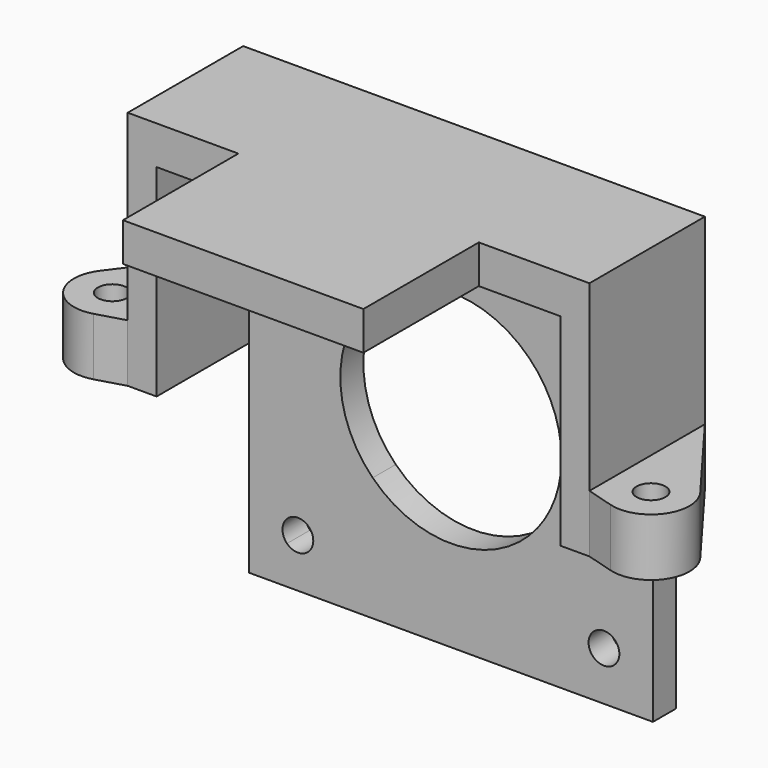
from build123d import *

# Parameters (mm, degrees)
F1_DEPTH = 3
F4_DEPTH = 4
F5_W     = 3
F5_H     = 25
F6_DEPTH = 15
F8_R     = 1.5
F9_DEPTH = 6


with BuildPart() as f1:
    # F0 (on Front) → F1 (new body)
    with BuildSketch(Plane.XZ):
        with BuildLine():
            Line((-17.0412734266, 17.0412734266), (-21, 21))
            Line((-21, 21), (-21, -21))
            Line((-21, -21), (-17.0412734266, -17.0412734266))
            ThreePointArc((-17.0412734266, -17.0412734266), (-17.0412734266, -14.7785317268), (-14.7785317268, -14.7785317268))
            Line((-14.7785317268, -14.7785317268), (-8.1317279836, -8.1317279836))
            ThreePointArc((-8.1317279836, -8.1317279836), (-11.5, 0), (-8.1317279836, 8.1317279836))
            Line((-8.1317279836, 8.1317279836), (-14.7785317268, 14.7785317268))
            ThreePointArc((-14.7785317268, 14.7785317268), (-17.0412734266, 14.7785317268), (-17.0412734266, 17.0412734266))
        make_face()
        with BuildLine():
            Line((21, 21), (-21, 21))
            Line((-21, 21), (-17.0412734266, 17.0412734266))
            ThreePointArc((-17.0412734266, 17.0412734266), (-15.2976090849, 17.3881098287), (-14.3099025767, 15.9099025767))
            ThreePointArc((-14.3099025767, 15.9099025767), (-14.4316953247, 15.2976090849), (-14.7785317268, 14.7785317268))
            Line((-14.7785317268, 14.7785317268), (-8.1317279836, 8.1317279836))
            ThreePointArc((-8.1317279836, 8.1317279836), (0, 11.5), (8.1317279836, 8.1317279836))
            Line((8.1317279836, 8.1317279836), (14.7785317268, 14.7785317268))
            ThreePointArc((14.7785317268, 14.7785317268), (14.7785317268, 17.0412734266), (17.0412734266, 17.0412734266))
            Line((17.0412734266, 17.0412734266), (21, 21))
        make_face()
        with BuildLine():
            Line((21, -21), (21, 21))
            Line((21, 21), (17.0412734266, 17.0412734266))
            ThreePointArc((17.0412734266, 17.0412734266), (17.3881098287, 16.5221960685), (17.5099025767, 15.9099025767))
            ThreePointArc((17.5099025767, 15.9099025767), (16.5221960685, 14.4316953247), (14.7785317268, 14.7785317268))
            Line((14.7785317268, 14.7785317268), (8.1317279836, 8.1317279836))
            ThreePointArc((8.1317279836, 8.1317279836), (10.6246146239, 4.4008594722), (11.5, 0))
            ThreePointArc((11.5, 0), (10.6246146239, -4.4008594722), (8.1317279836, -8.1317279836))
            Line((8.1317279836, -8.1317279836), (14.7785317268, -14.7785317268))
            ThreePointArc((14.7785317268, -14.7785317268), (16.5221960685, -14.4316953247), (17.5099025767, -15.9099025767))
            ThreePointArc((17.5099025767, -15.9099025767), (17.3881098287, -16.5221960685), (17.0412734266, -17.0412734266))
            Line((17.0412734266, -17.0412734266), (21, -21))
        make_face()
        with BuildLine():
            Line((-17.0412734266, -17.0412734266), (-21, -21))
            Line((-21, -21), (21, -21))
            Line((21, -21), (17.0412734266, -17.0412734266))
            ThreePointArc((17.0412734266, -17.0412734266), (14.7785317268, -17.0412734266), (14.7785317268, -14.7785317268))
            Line((14.7785317268, -14.7785317268), (8.1317279836, -8.1317279836))
            ThreePointArc((8.1317279836, -8.1317279836), (0, -11.5), (-8.1317279836, -8.1317279836))
            Line((-8.1317279836, -8.1317279836), (-14.7785317268, -14.7785317268))
            ThreePointArc((-14.7785317268, -14.7785317268), (-14.4316953247, -15.2976090849), (-14.3099025767, -15.9099025767))
            ThreePointArc((-14.3099025767, -15.9099025767), (-15.2976090849, -17.3881098287), (-17.0412734266, -17.0412734266))
        make_face()
    extrude(amount=F1_DEPTH)

    # F3 (on offset) → F4 (join)
    with BuildSketch(Plane.XY.offset(21)):
        Polygon((0, 0), (-21, 0), (-21, -15), (-12.5, -15), (-12.5, -30), (0, -30), align=None)
        Polygon((21, 0), (0, 0), (0, -30), (12.5, -30), (12.5, -15), (21, -15), align=None)
    extrude(amount=F4_DEPTH)

    # F5 (on Front) → F6 (join)
    with BuildSketch(Plane.XZ):
        with Locations((-22.5, 12.5)):
            Rectangle(F5_W, F5_H)
        with Locations((22.5, 12.5)):
            Rectangle(F5_W, F5_H)
    extrude(amount=F6_DEPTH)

    # F8 (on offset) → F9 (join)
    with BuildSketch(Plane(origin=(0, 0, 0), x_dir=(1, 0, 0), z_dir=(0, 0, -1))):
        with BuildLine():
            Line((24, 0), (31.2, 9.6))
            ThreePointArc((31.2, 9.6), (31.2887687666, 14.2768399153), (26.88, 15.84))
            Line((26.88, 15.84), (24, 15))
            Line((24, 15), (24, 0))
        make_face()
        with Locations((28, 12)):
            Circle(F8_R, mode=Mode.SUBTRACT)
        with BuildLine():
            Line((-24, 0), (-24, 15))
            Line((-24, 15), (-26.88, 15.84))
            ThreePointArc((-26.88, 15.84), (-31.2887687666, 14.2768399153), (-31.2, 9.6))
            Line((-31.2, 9.6), (-24, 0))
        make_face()
        with Locations((-28, 12)):
            Circle(F8_R, mode=Mode.SUBTRACT)
    extrude(amount=-F9_DEPTH)


solid = f1.part
